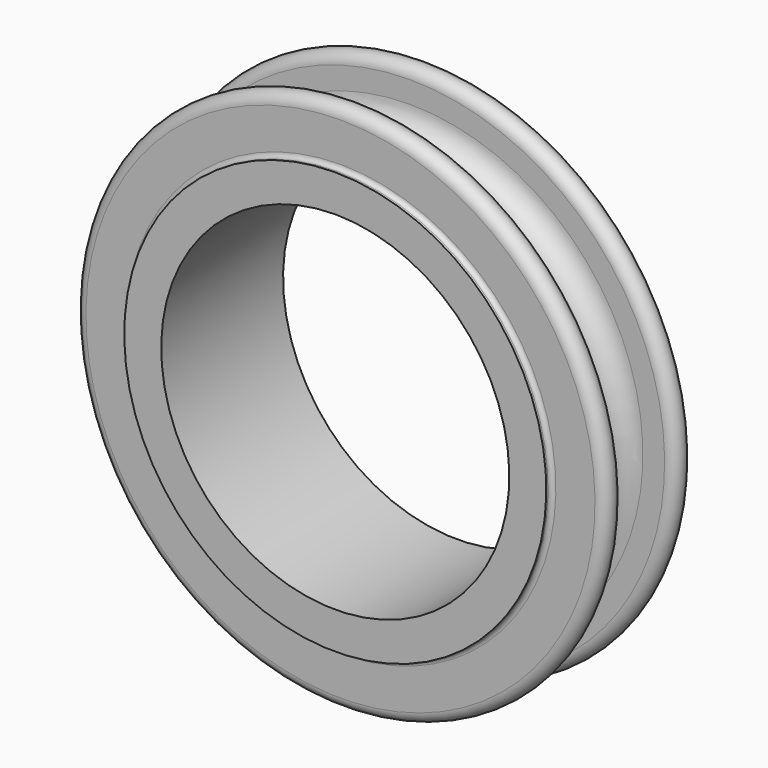
from build123d import *


with BuildPart() as f1:
    # F0 (on Right) → F1 (revolve)
    with BuildSketch(Plane.YZ):
        with BuildLine():
            Line((5, 97), (0, 97))
            Line((0, 97), (-5, 97))
            ThreePointArc((-5, 97), (-12.071068, 99.928932), (-15, 107))
            Line((-15, 107), (-15, 117))
            ThreePointArc((-15, 117), (-20, 122), (-25, 117))
            Line((-25, 117), (-25, 99))
            ThreePointArc((-25, 99), (-25.585786, 97.585786), (-27, 97))
            Line((-27, 97), (-28, 97))
            Line((-28, 97), (-28, 80))
            Line((-28, 80), (42, 80))
            Line((42, 80), (42, 97))
            Line((42, 97), (27, 97))
            ThreePointArc((27, 97), (25.585786, 97.585786), (25, 99))
            Line((25, 99), (25, 117))
            ThreePointArc((25, 117), (20, 122), (15, 117))
            Line((15, 117), (15, 107))
            ThreePointArc((15, 107), (12.071068, 99.928932), (5, 97))
        make_face()
    revolve(axis=Axis((0, -13.024303, 0), (0, 1, 0)))


solid = f1.part
